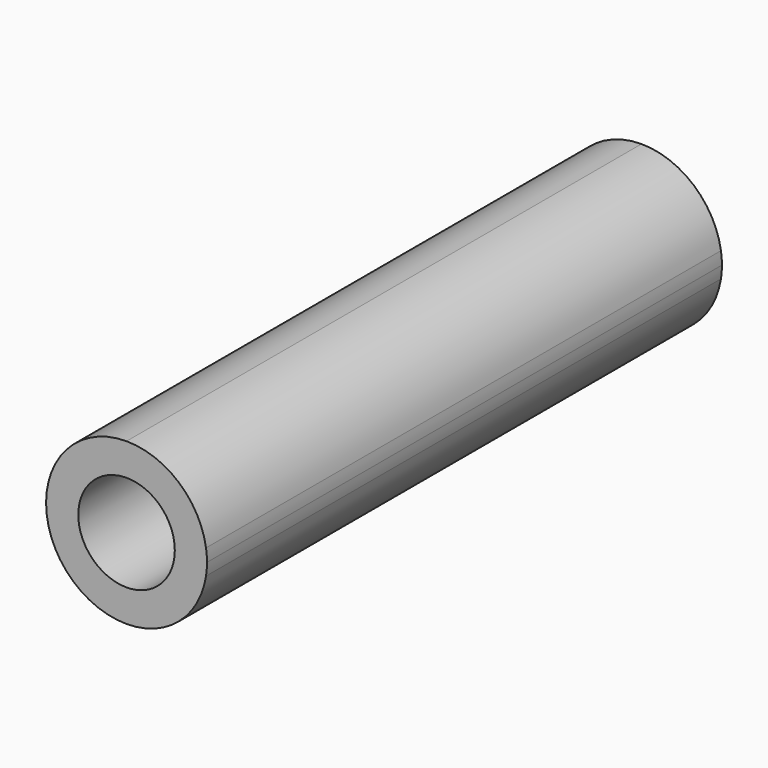
from build123d import *

# Parameters (mm, degrees)
F0_R     = 9.525
F1_DEPTH = 127


with BuildPart() as f1:
    # F0 (on Front) → F1 (new body)
    with BuildSketch(Plane.XZ):
        with BuildLine():
            ThreePointArc((15.685102, -2.448103), (15.827454, -1.227728), (15.875, 0))
            ThreePointArc((15.875, 0), (15.827454, 1.227728), (15.685102, 2.448103))
            ThreePointArc((15.685102, 2.448103), (10.323565, 12.059835), (0, 15.875))
            ThreePointArc((0, 15.875), (-15.875, 0), (0, -15.875))
            ThreePointArc((0, -15.875), (10.323565, -12.059835), (15.685102, -2.448103))
        make_face()
        Circle(F0_R, mode=Mode.SUBTRACT)
    extrude(amount=F1_DEPTH)


solid = f1.part
